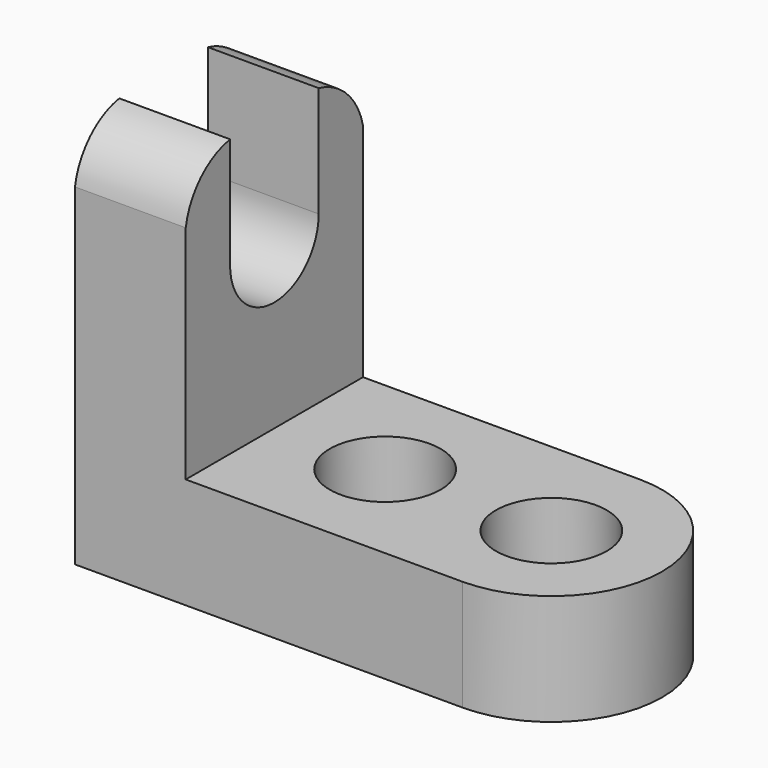
from build123d import *

# Parameters (mm, degrees)
F0_W      = 44.45
F0_H      = 12.7
F1_DEPTH  = 25.4
F3_DEPTH  = 12.7
F4_W      = 12.7
F4_H      = 25.4
F5_DEPTH  = 31.75
F8_DEPTH  = 25.4
F9_W      = 12.7
F9_H      = 12.7
F10_DEPTH = 25.4
F11_R     = 6.351859
F11_R_2   = 6.35
F12_DEPTH = 25.4


with BuildPart() as f1:
    # F0 (on Front) → F1 (new body)
    with BuildSketch(Plane.XZ):
        with Locations((-22.225, 6.35)):
            Rectangle(F0_W, F0_H)
    extrude(amount=F1_DEPTH)

    # F2 (on face) → F3 (join)
    with BuildSketch(Plane.XY.offset(12.7)):
        with BuildLine():
            Line((0, 0), (0, -25.4))
            ThreePointArc((0, -25.4), (12.7, -12.7), (0, 0))
        make_face()
    extrude(amount=-F3_DEPTH)

    # F4 (on face) → F5 (join)
    with BuildSketch(Plane.XY.offset(12.7)):
        with Locations((-38.1, -12.7)):
            Rectangle(F4_W, F4_H)
    extrude(amount=F5_DEPTH)

    # F6 (on face) → F8 (cut)
    with BuildSketch(Plane.YZ.offset(-31.75)):
        with BuildLine():
            ThreePointArc((-25.4, 38.1), (-23.242324, 42.292324), (-19.05, 44.45))
            Line((-19.05, 44.45), (-25.4, 44.45))
            Line((-25.4, 44.45), (-25.4, 38.1))
        make_face()
        with BuildLine():
            Line((0, 44.45), (-6.35, 44.45))
            ThreePointArc((-6.35, 44.45), (-2.262865, 42.187135), (0, 38.1))
            Line((0, 38.1), (0, 44.45))
        make_face()
    extrude(amount=-F8_DEPTH, mode=Mode.SUBTRACT)

    # F9 (on face) → F10 (cut)
    with BuildSketch(Plane.YZ.offset(-31.75)):
        with Locations((-12.7, 38.1)):
            Rectangle(F9_W, F9_H)
        with BuildLine():
            Line((-6.35, 31.75), (-19.05, 31.75))
            ThreePointArc((-19.05, 31.75), (-12.7, 25.4), (-6.35, 31.75))
        make_face()
    extrude(amount=-F10_DEPTH, mode=Mode.SUBTRACT)

    # F11 (on face) → F12 (cut)
    with BuildSketch(Plane.XY.offset(12.7)):
        with Locations((0, -12.7)):
            Circle(F11_R)
        with Locations((-19.05, -12.7)):
            Circle(F11_R_2)
    extrude(amount=-F12_DEPTH, mode=Mode.SUBTRACT)


solid = f1.part
